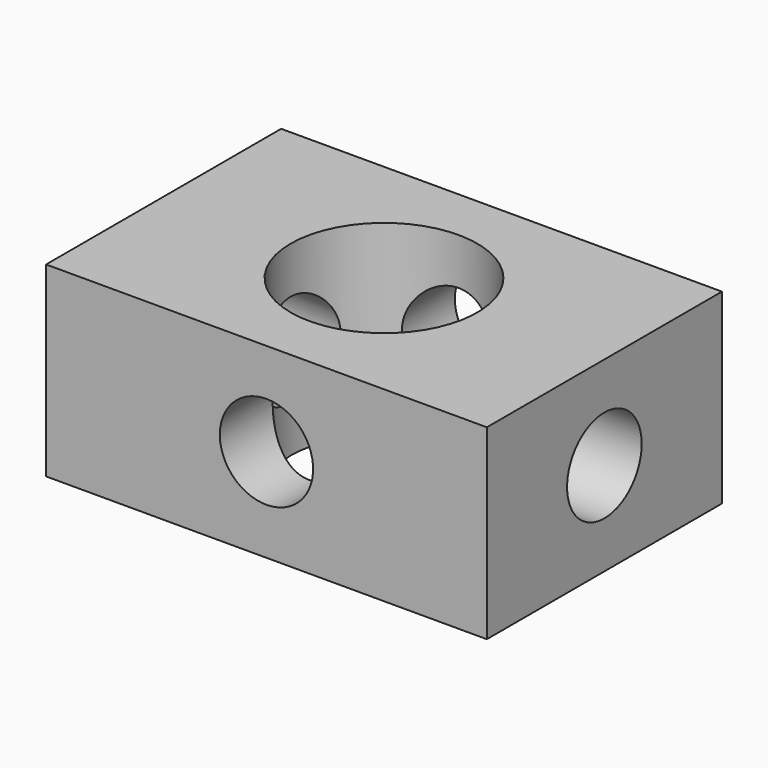
from build123d import *

# Parameters (mm, degrees)
F0_W          = 120
F0_H          = 80
F1_DEPTH      = 25.4
F1_DEPTH_BACK = 25.4
F3_D          = 50.8
F5_D          = 25.4
F7_D          = 25.4


with BuildPart() as f1:
    # F0 (on Top) → F1 (new body, two sides)
    with BuildSketch(Plane.XY) as f1_sk:
        Rectangle(F0_W, F0_H)
    extrude(amount=F1_DEPTH)
    extrude(f1_sk.sketch, amount=-F1_DEPTH_BACK)

    # F3 (through all)
    with Locations(Plane.XY.offset(25.4)):
        with Locations((0, 0)):
            Hole(F3_D / 2)

    # F5 (through all)
    with Locations(Plane.XZ.offset(40)):
        with Locations((0, 0)):
            Hole(F5_D / 2)

    # F7 (through all)
    with Locations(Plane(origin=(-60, 0, 0), x_dir=(0, -1, 0), z_dir=(-1, 0, 0))):
        with Locations((0, 0)):
            Hole(F7_D / 2)


solid = f1.part
